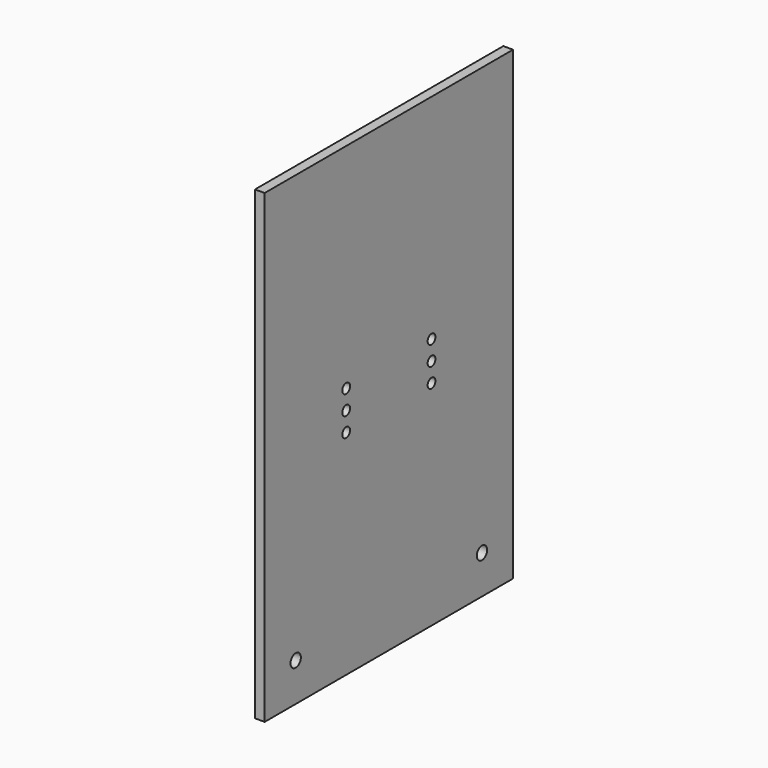
from build123d import *

# Parameters (mm, degrees)
F0_W     = 9.525
F0_H     = 457.2
F1_DEPTH = 304.8
F3_R     = 6.35
F4_DEPTH = 9.526
F5_R     = 4.78155
F6_DEPTH = 9.526


with BuildPart() as f1:
    # F0 (on Front) → F1 (new body)
    with BuildSketch(Plane.XZ):
        with Locations((-111.354939, 228.6)):
            Rectangle(F0_W, F0_H)
    extrude(amount=F1_DEPTH)

    # F3 (on face) → F4 (cut, through all)
    with BuildSketch(Plane(origin=(-116.117439, 0, 0), x_dir=(0, -1, 0), z_dir=(-1, 0, 0))):
        with Locations((38.1, 37.703125)):
            Circle(F3_R)
        with Locations((266.7147, 37.703125)):
            Circle(F3_R)
    extrude(amount=-F4_DEPTH, mode=Mode.SUBTRACT)

    # F5 (on face) → F6 (cut, through all)
    with BuildSketch(Plane(origin=(-116.117439, 0, 0), x_dir=(0, -1, 0), z_dir=(-1, 0, 0))):
        with Locations((100.0125, 247.65)):
            Circle(F5_R)
        with Locations((204.7875, 247.65)):
            Circle(F5_R)
        with Locations((100.0125, 228.6)):
            Circle(F5_R)
        with Locations((204.7875, 228.6)):
            Circle(F5_R)
        with Locations((100.0125, 209.55)):
            Circle(F5_R)
        with Locations((204.7875, 209.55)):
            Circle(F5_R)
    extrude(amount=-F6_DEPTH, mode=Mode.SUBTRACT)


solid = f1.part
